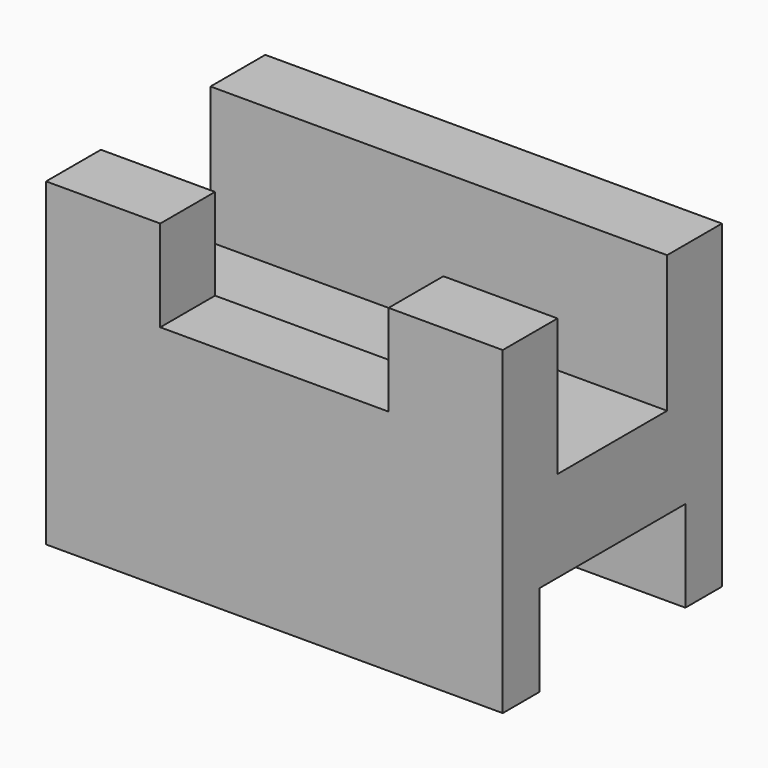
from build123d import *

# Parameters (mm, degrees)
F1_DEPTH  = 38.1
F1_FACE_W = 38.1
F1_FACE_H = 12.7
F2_DEPTH  = 31.75
F3_W      = 31.75
F3_H      = 12.7
F4_DEPTH  = 28.575
F5_W      = 19.05
F5_H      = 19.05
F6_DEPTH  = 63.501
F7_W      = 25.4
F7_H      = 12.7
F8_DEPTH  = 63.5


with BuildPart() as f1:
    # F0 (on Front) → F1 (new body)
    with BuildSketch(Plane.XZ):
        Polygon((-15.875, 22.225), (-31.75, 22.225), (-31.75, -22.225), (31.75, -22.225), (31.75, 22.225), (15.875, 22.225), (15.875, 9.525), (-15.875, 9.525), align=None)
    extrude(amount=F1_DEPTH)

    # F1_face (on face) → F2 (join)
    with BuildSketch(Plane(origin=(15.875, -19.05, 15.875), x_dir=(0, -1, 0), z_dir=(-1, 0, 0))):
        Rectangle(F1_FACE_W, F1_FACE_H)
    extrude(amount=F2_DEPTH)

    # F3 (on face) → F4 (cut)
    with BuildSketch(Plane.XZ.offset(38.1)):
        with Locations((0, 15.875)):
            Rectangle(F3_W, F3_H)
    extrude(amount=-F4_DEPTH, mode=Mode.SUBTRACT)

    # F5 (on face) → F6 (cut, through all)
    with BuildSketch(Plane.YZ.offset(31.75)):
        with Locations((-19.05, 12.7)):
            Rectangle(F5_W, F5_H)
    extrude(amount=-F6_DEPTH, mode=Mode.SUBTRACT)

    # F7 (on face) → F8 (cut)
    with BuildSketch(Plane(origin=(-31.75, 0, 0), x_dir=(0, -1, 0), z_dir=(-1, 0, 0))):
        with Locations((19.05, -15.875)):
            Rectangle(F7_W, F7_H)
    extrude(amount=-F8_DEPTH, mode=Mode.SUBTRACT)


solid = f1.part
